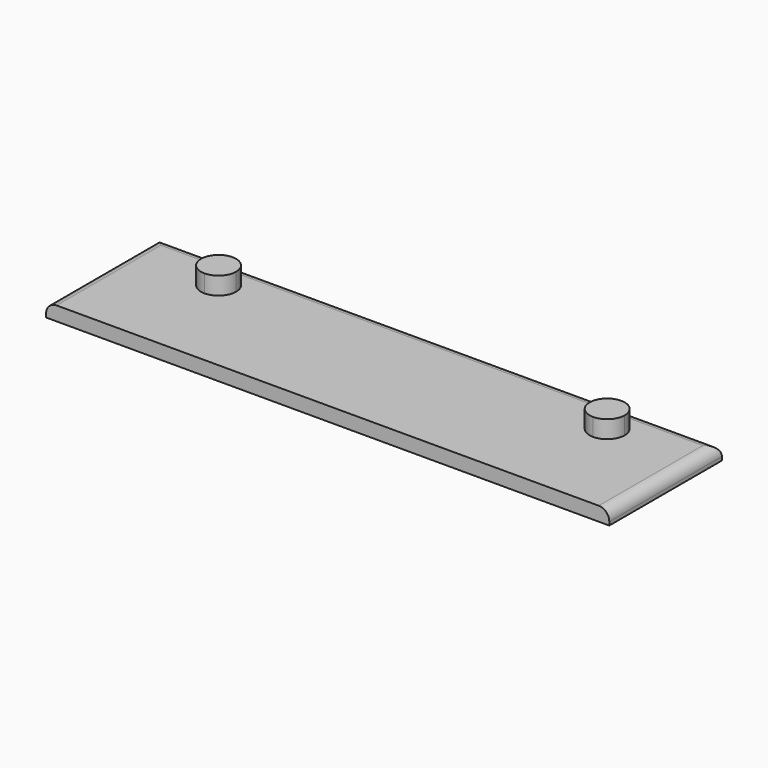
from build123d import *

# Parameters (mm, degrees)
F0_W     = 101.6
F0_H     = 25.4
F1_DEPTH = 2.54
F2_R     = 1.905
F4_DEPTH = 3.175


with BuildPart() as f1:
    # F0 (on Top) → F1 (new body)
    with BuildSketch(Plane.XY):
        with Locations((34.925, 0)):
            Rectangle(F0_W, F0_H)
        with BuildLine():
            Line((69.85, 0), (0, 0))
            Line((0, 0), (0, 3.175))
            ThreePointArc((0, 3.175), (-2.2450640303, 8.5950640303), (3.175, 6.35))
            Line((3.175, 6.35), (66.675, 6.35))
            ThreePointArc((66.675, 6.35), (69.85, 9.525), (73.025, 6.35))
            ThreePointArc((73.025, 6.35), (72.0950640303, 4.1049359697), (69.85, 3.175))
            Line((69.85, 3.175), (69.85, 0))
        make_face(mode=Mode.SUBTRACT)
        with Locations((34.925, 0)):
            Rectangle(F0_W, F0_H)
        with BuildLine():
            Line((69.85, 0), (0, 0))
            Line((0, 0), (0, 3.175))
            ThreePointArc((0, 3.175), (-2.2450640303, 8.5950640303), (3.175, 6.35))
            Line((3.175, 6.35), (66.675, 6.35))
            ThreePointArc((66.675, 6.35), (69.85, 9.525), (73.025, 6.35))
            ThreePointArc((73.025, 6.35), (72.0950640303, 4.1049359697), (69.85, 3.175))
            Line((69.85, 3.175), (69.85, 0))
        make_face(mode=Mode.SUBTRACT)
        with BuildLine():
            Line((0, 3.175), (0, 0))
            Line((0, 0), (69.85, 0))
            Line((69.85, 0), (69.85, 3.175))
            ThreePointArc((69.85, 3.175), (67.6049359697, 4.1049359697), (66.675, 6.35))
            Line((66.675, 6.35), (3.175, 6.35))
            ThreePointArc((3.175, 6.35), (2.2450640303, 4.1049359697), (0, 3.175))
        make_face()
        with BuildLine():
            Line((69.85, 6.35), (69.85, 3.175))
            ThreePointArc((69.85, 3.175), (72.0950640303, 4.1049359697), (73.025, 6.35))
            ThreePointArc((73.025, 6.35), (69.85, 9.525), (66.675, 6.35))
            Line((66.675, 6.35), (69.85, 6.35))
        make_face()
        with BuildLine():
            ThreePointArc((3.175, 6.35), (-2.2450640303, 8.5950640303), (0, 3.175))
            Line((0, 3.175), (0, 6.35))
            Line((0, 6.35), (3.175, 6.35))
        make_face()
        with BuildLine():
            Line((0, 6.35), (0, 3.175))
            ThreePointArc((0, 3.175), (2.2450640303, 4.1049359697), (3.175, 6.35))
            Line((3.175, 6.35), (0, 6.35))
        make_face()
        with BuildLine():
            ThreePointArc((66.675, 6.35), (67.6049359697, 4.1049359697), (69.85, 3.175))
            Line((69.85, 3.175), (69.85, 6.35))
            Line((69.85, 6.35), (66.675, 6.35))
        make_face()
    extrude(amount=F1_DEPTH)

    # F2
    f2_edges = [f1.edges().sort_by_distance(p)[0] for p in [
        (34.925, 12.7, 2.54),
        (-15.875, 0, 2.54),
        (85.725, 0, 2.54),
    ]]
    fillet(f2_edges, radius=F2_R)

    # F3 (on face) → F4 (join)
    with BuildSketch(Plane.XY.offset(2.54)):
        with BuildLine():
            ThreePointArc((66.939, 6.35), (67.8660070375, 4.1120070375), (70.104, 3.185))
            Line((70.104, 3.185), (70.104, 6.35))
            Line((70.104, 6.35), (66.939, 6.35))
        make_face()
        with BuildLine():
            Line((70.104, 6.35), (70.104, 3.185))
            ThreePointArc((70.104, 3.185), (72.3419929625, 4.1120070375), (73.269, 6.35))
            ThreePointArc((73.269, 6.35), (70.104, 9.515), (66.939, 6.35))
            Line((66.939, 6.35), (70.104, 6.35))
        make_face()
        with BuildLine():
            Line((0, 6.35), (0, 3.185))
            ThreePointArc((0, 3.185), (2.2379929625, 4.1120070375), (3.165, 6.35))
            Line((3.165, 6.35), (0, 6.35))
        make_face()
        with BuildLine():
            ThreePointArc((3.165, 6.35), (-2.2379929625, 8.5879929625), (0, 3.185))
            Line((0, 3.185), (0, 6.35))
            Line((0, 6.35), (3.165, 6.35))
        make_face()
    extrude(amount=F4_DEPTH)


solid = f1.part
